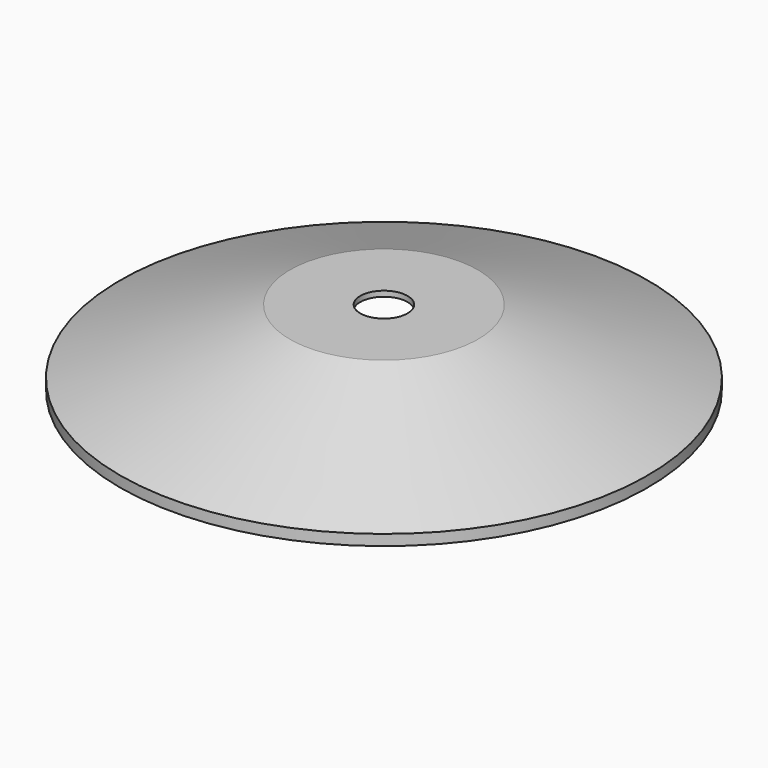
from build123d import *

# Parameters (mm, degrees)
F3_D = 8.8


with BuildPart() as f1:
    # F0 (on Right) → F1 (revolve)
    with BuildSketch(Plane.YZ):
        Polygon((46.5, 2), (46.5, 0), (49.1363636364, 0), (49.1363636364, 2), (17.5, 14), (0, 14), (0, 13), (17.5, 13), align=None)
    revolve(axis=Axis((0, 0, 13.5), (0, 0, -1)))

    # F3 (through all)
    with Locations(Plane.XY.offset(14)):
        with Locations((0, 0)):
            Hole(F3_D / 2)


solid = f1.part
